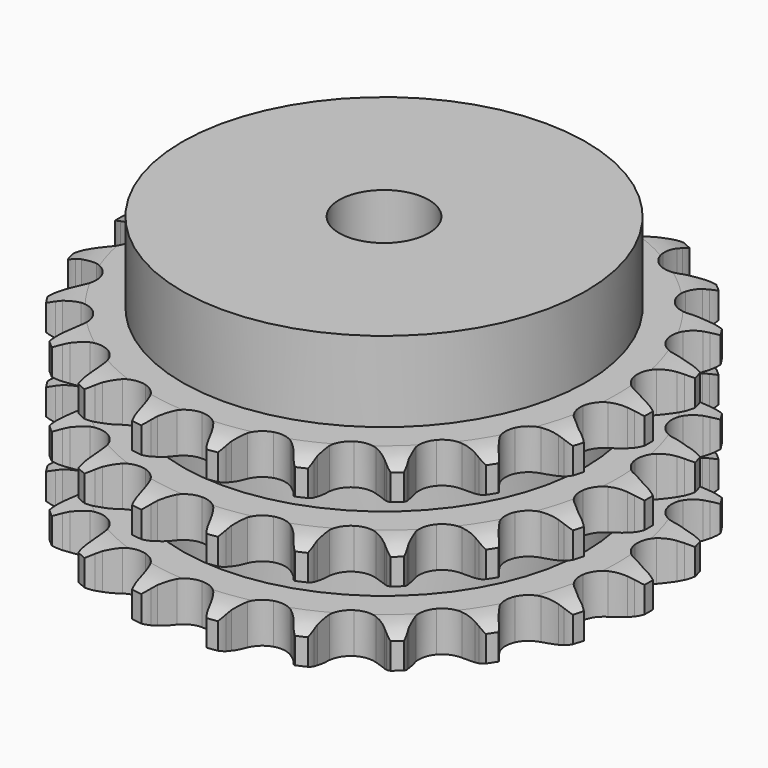
from build123d import *

# Parameters (mm, degrees)
PAD_DEPTH         = 42.1
SKETCH001_R       = 45
PAD001_DEPTH      = 60
SKETCH002_R       = 10
POCKET_DEPTH      = 0.001
POCKET_DEPTH_BACK = 60.001


with BuildPart() as part:
    # Sprocket → Pad (new body)
    with BuildSketch(Plane.XY):
        with BuildLine():
            ThreePointArc((-8.640686, 60.097289), (-7.303352, 58.644234), (-6.344236, 56.917988))
            Line((-6.344236, 56.917988), (-5.852618, 55.717672))
            ThreePointArc((-5.852618, 55.717672), (-5.064758, 54.112029), (-4.068161, 52.6269))
            ThreePointArc((-4.068161, 52.6269), (-2.265758, 51.156659), (0, 50.630726))
            ThreePointArc((0, 50.630726), (2.265758, 51.156659), (4.068161, 52.6269))
            ThreePointArc((4.068161, 52.6269), (5.064758, 54.112029), (5.852618, 55.717672))
            Line((5.852618, 55.717672), (6.344236, 56.917988))
            ThreePointArc((6.344236, 56.917988), (7.303352, 58.644234), (8.640686, 60.097289))
            ThreePointArc((8.640686, 60.097289), (9.514475, 58.326323), (9.9484, 56.399787))
            Line((9.9484, 56.399787), (10.081936, 55.109588))
            ThreePointArc((10.081936, 55.109588), (10.385521, 53.347019), (10.92334, 51.641274))
            ThreePointArc((10.92334, 51.641274), (12.238517, 49.722792), (14.264324, 48.579826))
            ThreePointArc((14.264324, 48.579826), (16.586475, 48.446117), (18.730083, 49.349008))
            Line((18.730083, 49.349008), (21.313028, 51.811841))
            ThreePointArc((21.313028, 51.811841), (21.705579, 52.328336), (22.122901, 52.825031))
            ThreePointArc((22.122901, 52.825031), (23.529505, 54.211138), (25.22204, 55.228564))
            ThreePointArc((25.22204, 55.228564), (25.561496, 53.28316), (25.435076, 51.312411))
            Line((25.435076, 51.312411), (25.199712, 50.036852))
            ThreePointArc((25.199712, 50.036852), (24.994426, 48.26015), (25.029896, 46.471979))
            ThreePointArc((25.029896, 46.471979), (25.751301, 44.260681), (27.373037, 42.593277))
            ThreePointArc((27.373037, 42.593277), (29.563455, 41.810758), (31.874605, 42.073152))
            Line((31.874605, 42.073152), (35.046783, 43.708524))
            ThreePointArc((35.046783, 43.708524), (35.568947, 44.093503), (36.109299, 44.452505))
            ThreePointArc((36.109299, 44.452505), (37.849438, 45.386179), (39.760055, 45.88555))
            ThreePointArc((39.760055, 45.88555), (39.537676, 43.923312), (38.861154, 42.068009))
            Line((38.861154, 42.068009), (38.275957, 40.910429))
            ThreePointArc((38.275957, 40.910429), (37.578432, 39.263532), (37.108679, 37.537801))
            ThreePointArc((37.108679, 37.537801), (37.177867, 35.212833), (38.26415, 33.156075))
            ThreePointArc((38.26415, 33.156075), (40.145379, 31.788141), (42.436836, 31.38878))
            Line((42.436836, 31.38878), (45.941257, 32.064202))
            ThreePointArc((45.941257, 32.064202), (46.55073, 32.286476), (47.170336, 32.478701))
            ThreePointArc((47.170336, 32.478701), (49.103034, 32.884301), (51.076947, 32.82516))
            ThreePointArc((51.076947, 32.82516), (50.310749, 31.005058), (49.138932, 29.415507))
            Line((49.138932, 29.415507), (48.251311, 28.469686))
            ThreePointArc((48.251311, 28.469686), (47.118056, 27.086015), (46.181137, 25.562533))
            ThreePointArc((46.181137, 25.562533), (45.592503, 23.31225), (46.055329, 21.032764))
            ThreePointArc((46.055329, 21.032764), (47.474963, 19.190238), (49.561087, 18.161475))
            Line((49.561087, 18.161475), (53.113842, 17.822228))
            ThreePointArc((53.113842, 17.822228), (53.761249, 17.863791), (54.409914, 17.873666))
            ThreePointArc((54.409914, 17.873666), (56.378594, 17.718332), (58.255888, 17.105472))
            ThreePointArc((58.255888, 17.105472), (57.007945, 15.574959), (55.435766, 14.379936))
            Line((55.435766, 14.379936), (54.317632, 13.722499))
            ThreePointArc((54.317632, 13.722499), (52.840456, 12.714151), (51.512275, 11.516341))
            ThreePointArc((51.512275, 11.516341), (50.313507, 9.523048), (50.115379, 7.205504))
            ThreePointArc((50.115379, 7.205504), (50.958409, 5.037656), (52.670194, 3.462836))
            Line((52.670194, 3.462836), (55.98346, 2.136404))
            ThreePointArc((55.98346, 2.136404), (56.616352, 1.993887), (57.241524, 1.820613))
            ThreePointArc((57.241524, 1.820613), (59.086696, 1.11693), (60.715283, 0))
            ThreePointArc((60.715283, 0), (59.086696, -1.11693), (57.241524, -1.820613))
            Line((57.241524, -1.820613), (55.98346, -2.136404))
            ThreePointArc((55.98346, -2.136404), (54.282037, -2.687739), (52.670194, -3.462836))
            ThreePointArc((52.670194, -3.462836), (50.958409, -5.037656), (50.115379, -7.205504))
            ThreePointArc((50.115379, -7.205504), (50.313507, -9.523048), (51.512275, -11.516341))
            Line((51.512275, -11.516341), (54.317632, -13.722499))
            ThreePointArc((54.317632, -13.722499), (54.884735, -14.037549), (55.435766, -14.379936))
            ThreePointArc((55.435766, -14.379936), (57.007945, -15.574959), (58.255888, -17.105472))
            ThreePointArc((58.255888, -17.105472), (56.378594, -17.718332), (54.409914, -17.873666))
            Line((54.409914, -17.873666), (53.113842, -17.822228))
            ThreePointArc((53.113842, -17.822228), (51.326009, -17.871883), (49.561087, -18.161475))
            ThreePointArc((49.561087, -18.161475), (47.474963, -19.190238), (46.055329, -21.032764))
            ThreePointArc((46.055329, -21.032764), (45.592503, -23.31225), (46.181137, -25.562533))
            Line((46.181137, -25.562533), (48.251311, -28.469686))
            ThreePointArc((48.251311, -28.469686), (48.706683, -28.931746), (49.138932, -29.415507))
            ThreePointArc((49.138932, -29.415507), (50.310749, -31.005058), (51.076947, -32.82516))
            ThreePointArc((51.076947, -32.82516), (49.103034, -32.884301), (47.170336, -32.478701))
            Line((47.170336, -32.478701), (45.941257, -32.064202))
            ThreePointArc((45.941257, -32.064202), (44.211854, -31.608154), (42.436836, -31.38878))
            ThreePointArc((42.436836, -31.38878), (40.145379, -31.788141), (38.26415, -33.156075))
            ThreePointArc((38.26415, -33.156075), (37.177867, -35.212833), (37.108679, -37.537801))
            Line((37.108679, -37.537801), (38.275957, -40.910429))
            ThreePointArc((38.275957, -40.910429), (38.582706, -41.482066), (38.861154, -42.068009))
            ThreePointArc((38.861154, -42.068009), (39.537676, -43.923312), (39.760055, -45.88555))
            ThreePointArc((39.760055, -45.88555), (37.849438, -45.386179), (36.109299, -44.452505))
            Line((36.109299, -44.452505), (35.046783, -43.708524))
            ThreePointArc((35.046783, -43.708524), (33.515917, -42.78372), (31.874605, -42.073152))
            ThreePointArc((31.874605, -42.073152), (29.563455, -41.810758), (27.373037, -42.593277))
            ThreePointArc((27.373037, -42.593277), (25.751301, -44.260681), (25.029896, -46.471979))
            Line((25.029896, -46.471979), (25.199712, -50.036852))
            ThreePointArc((25.199712, -50.036852), (25.332987, -50.671755), (25.435076, -51.312411))
            ThreePointArc((25.435076, -51.312411), (25.561496, -53.28316), (25.22204, -55.228564))
            ThreePointArc((25.22204, -55.228564), (23.529505, -54.211138), (22.122901, -52.825031))
            Line((22.122901, -52.825031), (21.313028, -51.811841))
            ThreePointArc((21.313028, -51.811841), (20.10472, -50.493204), (18.730083, -49.349008))
            ThreePointArc((18.730083, -49.349008), (16.586475, -48.446117), (14.264324, -48.579826))
            ThreePointArc((14.264324, -48.579826), (12.238517, -49.722792), (10.92334, -51.641274))
            Line((10.92334, -51.641274), (10.081936, -55.109588))
            ThreePointArc((10.081936, -55.109588), (10.03094, -55.75632), (9.9484, -56.399787))
            ThreePointArc((9.9484, -56.399787), (9.514475, -58.326323), (8.640686, -60.097289))
            ThreePointArc((8.640686, -60.097289), (7.303352, -58.644234), (6.344236, -56.917988))
            Line((6.344236, -56.917988), (5.852618, -55.717672))
            ThreePointArc((5.852618, -55.717672), (5.064758, -54.112029), (4.068161, -52.6269))
            ThreePointArc((4.068161, -52.6269), (2.265758, -51.156659), (0, -50.630726))
            ThreePointArc((0, -50.630726), (-2.265758, -51.156659), (-4.068161, -52.6269))
            Line((-4.068161, -52.6269), (-5.852618, -55.717672))
            ThreePointArc((-5.852618, -55.717672), (-6.083754, -56.323839), (-6.344236, -56.917988))
            ThreePointArc((-6.344236, -56.917988), (-7.303352, -58.644234), (-8.640686, -60.097289))
            ThreePointArc((-8.640686, -60.097289), (-9.514475, -58.326323), (-9.9484, -56.399787))
            Line((-9.9484, -56.399787), (-10.081936, -55.109588))
            ThreePointArc((-10.081936, -55.109588), (-10.385521, -53.347019), (-10.92334, -51.641274))
            ThreePointArc((-10.92334, -51.641274), (-12.238517, -49.722792), (-14.264324, -48.579826))
            ThreePointArc((-14.264324, -48.579826), (-16.586475, -48.446117), (-18.730083, -49.349008))
            Line((-18.730083, -49.349008), (-21.313028, -51.811841))
            ThreePointArc((-21.313028, -51.811841), (-21.705579, -52.328336), (-22.122901, -52.825031))
            ThreePointArc((-22.122901, -52.825031), (-23.529505, -54.211138), (-25.22204, -55.228564))
            ThreePointArc((-25.22204, -55.228564), (-25.561496, -53.28316), (-25.435076, -51.312411))
            Line((-25.435076, -51.312411), (-25.199712, -50.036852))
            ThreePointArc((-25.199712, -50.036852), (-24.994426, -48.26015), (-25.029896, -46.471979))
            ThreePointArc((-25.029896, -46.471979), (-25.751301, -44.260681), (-27.373037, -42.593277))
            ThreePointArc((-27.373037, -42.593277), (-29.563455, -41.810758), (-31.874605, -42.073152))
            Line((-31.874605, -42.073152), (-35.046783, -43.708524))
            ThreePointArc((-35.046783, -43.708524), (-35.568947, -44.093503), (-36.109299, -44.452505))
            ThreePointArc((-36.109299, -44.452505), (-37.849438, -45.386179), (-39.760055, -45.88555))
            ThreePointArc((-39.760055, -45.88555), (-39.537676, -43.923312), (-38.861154, -42.068009))
            Line((-38.861154, -42.068009), (-38.275957, -40.910429))
            ThreePointArc((-38.275957, -40.910429), (-37.578432, -39.263532), (-37.108679, -37.537801))
            ThreePointArc((-37.108679, -37.537801), (-37.177867, -35.212833), (-38.26415, -33.156075))
            ThreePointArc((-38.26415, -33.156075), (-40.145379, -31.788141), (-42.436836, -31.38878))
            Line((-42.436836, -31.38878), (-45.941257, -32.064202))
            ThreePointArc((-45.941257, -32.064202), (-46.55073, -32.286476), (-47.170336, -32.478701))
            ThreePointArc((-47.170336, -32.478701), (-49.103034, -32.884301), (-51.076947, -32.82516))
            ThreePointArc((-51.076947, -32.82516), (-50.310749, -31.005058), (-49.138932, -29.415507))
            Line((-49.138932, -29.415507), (-48.251311, -28.469686))
            ThreePointArc((-48.251311, -28.469686), (-47.118056, -27.086015), (-46.181137, -25.562533))
            ThreePointArc((-46.181137, -25.562533), (-45.592503, -23.31225), (-46.055329, -21.032764))
            ThreePointArc((-46.055329, -21.032764), (-47.474963, -19.190238), (-49.561087, -18.161475))
            Line((-49.561087, -18.161475), (-53.113842, -17.822228))
            ThreePointArc((-53.113842, -17.822228), (-53.761249, -17.863791), (-54.409914, -17.873666))
            ThreePointArc((-54.409914, -17.873666), (-56.378594, -17.718332), (-58.255888, -17.105472))
            ThreePointArc((-58.255888, -17.105472), (-57.007945, -15.574959), (-55.435766, -14.379936))
            Line((-55.435766, -14.379936), (-54.317632, -13.722499))
            ThreePointArc((-54.317632, -13.722499), (-52.840456, -12.714151), (-51.512275, -11.516341))
            ThreePointArc((-51.512275, -11.516341), (-50.313507, -9.523048), (-50.115379, -7.205504))
            ThreePointArc((-50.115379, -7.205504), (-50.958409, -5.037656), (-52.670194, -3.462836))
            Line((-52.670194, -3.462836), (-55.98346, -2.136404))
            ThreePointArc((-55.98346, -2.136404), (-56.616352, -1.993887), (-57.241524, -1.820613))
            ThreePointArc((-57.241524, -1.820613), (-59.086696, -1.11693), (-60.715283, 0))
            ThreePointArc((-60.715283, 0), (-59.086696, 1.11693), (-57.241524, 1.820613))
            Line((-57.241524, 1.820613), (-55.98346, 2.136404))
            ThreePointArc((-55.98346, 2.136404), (-54.282037, 2.687739), (-52.670194, 3.462836))
            ThreePointArc((-52.670194, 3.462836), (-50.958409, 5.037656), (-50.115379, 7.205504))
            ThreePointArc((-50.115379, 7.205504), (-50.313507, 9.523048), (-51.512275, 11.516341))
            Line((-51.512275, 11.516341), (-54.317632, 13.722499))
            ThreePointArc((-54.317632, 13.722499), (-54.884735, 14.037549), (-55.435766, 14.379936))
            ThreePointArc((-55.435766, 14.379936), (-57.007945, 15.574959), (-58.255888, 17.105472))
            ThreePointArc((-58.255888, 17.105472), (-56.378594, 17.718332), (-54.409914, 17.873666))
            Line((-54.409914, 17.873666), (-53.113842, 17.822228))
            ThreePointArc((-53.113842, 17.822228), (-51.326009, 17.871883), (-49.561087, 18.161475))
            ThreePointArc((-49.561087, 18.161475), (-47.474963, 19.190238), (-46.055329, 21.032764))
            ThreePointArc((-46.055329, 21.032764), (-45.592503, 23.31225), (-46.181137, 25.562533))
            Line((-46.181137, 25.562533), (-48.251311, 28.469686))
            ThreePointArc((-48.251311, 28.469686), (-48.706683, 28.931746), (-49.138932, 29.415507))
            ThreePointArc((-49.138932, 29.415507), (-50.310749, 31.005058), (-51.076947, 32.82516))
            ThreePointArc((-51.076947, 32.82516), (-49.103034, 32.884301), (-47.170336, 32.478701))
            Line((-47.170336, 32.478701), (-45.941257, 32.064202))
            ThreePointArc((-45.941257, 32.064202), (-44.211854, 31.608154), (-42.436836, 31.38878))
            ThreePointArc((-42.436836, 31.38878), (-40.145379, 31.788141), (-38.26415, 33.156075))
            ThreePointArc((-38.26415, 33.156075), (-37.177867, 35.212833), (-37.108679, 37.537801))
            Line((-37.108679, 37.537801), (-38.275957, 40.910429))
            ThreePointArc((-38.275957, 40.910429), (-38.582706, 41.482066), (-38.861154, 42.068009))
            ThreePointArc((-38.861154, 42.068009), (-39.537676, 43.923312), (-39.760055, 45.88555))
            ThreePointArc((-39.760055, 45.88555), (-37.849438, 45.386179), (-36.109299, 44.452505))
            Line((-36.109299, 44.452505), (-35.046783, 43.708524))
            ThreePointArc((-35.046783, 43.708524), (-33.515917, 42.78372), (-31.874605, 42.073152))
            ThreePointArc((-31.874605, 42.073152), (-29.563455, 41.810758), (-27.373037, 42.593277))
            ThreePointArc((-27.373037, 42.593277), (-25.751301, 44.260681), (-25.029896, 46.471979))
            Line((-25.029896, 46.471979), (-25.199712, 50.036852))
            ThreePointArc((-25.199712, 50.036852), (-25.332987, 50.671755), (-25.435076, 51.312411))
            ThreePointArc((-25.435076, 51.312411), (-25.561496, 53.28316), (-25.22204, 55.228564))
            ThreePointArc((-25.22204, 55.228564), (-23.529505, 54.211138), (-22.122901, 52.825031))
            Line((-22.122901, 52.825031), (-21.313028, 51.811841))
            ThreePointArc((-21.313028, 51.811841), (-20.10472, 50.493204), (-18.730083, 49.349008))
            ThreePointArc((-18.730083, 49.349008), (-16.586475, 48.446117), (-14.264324, 48.579826))
            ThreePointArc((-14.264324, 48.579826), (-12.238517, 49.722792), (-10.92334, 51.641274))
            Line((-10.92334, 51.641274), (-10.081936, 55.109588))
            ThreePointArc((-10.081936, 55.109588), (-10.03094, 55.75632), (-9.9484, 56.399787))
            ThreePointArc((-9.9484, 56.399787), (-9.514475, 58.326323), (-8.640686, 60.097289))
        make_face()
    extrude(amount=PAD_DEPTH)

    # Sketch → Groove (revolve, cut)
    with BuildSketch(Plane.XZ):
        with BuildLine():
            ThreePointArc((52.025762, 0), (55.60347, 0.405129), (59, 1.6))
            Line((59, 1.6), (59, 7.4))
            ThreePointArc((59, 7.4), (55.60347, 8.594871), (52.025762, 9))
            Line((45, 9), (52.025762, 9))
            Line((45, 9), (45, 16.55))
            Line((45, 16.55), (52.025762, 16.55))
            ThreePointArc((52.025762, 16.55), (55.60347, 16.955129), (59, 18.15))
            Line((59, 23.95), (59, 18.15))
            ThreePointArc((59, 23.95), (55.60347, 25.144871), (52.025762, 25.55))
            Line((45, 25.55), (52.025762, 25.55))
            Line((45, 33.1), (45, 25.55))
            Line((52.025762, 33.1), (45, 33.1))
            ThreePointArc((52.025762, 33.1), (55.60347, 33.505129), (59, 34.7))
            Line((59, 34.7), (59, 40.5))
            ThreePointArc((59, 40.5), (55.60347, 41.694871), (52.025762, 42.1))
            Line((52.025762, 42.1), (69, 42.1))
            Line((69, 42.1), (69, 0))
            Line((52.025762, 0), (69, 0))
        make_face()
    revolve(axis=Axis((0, 0, 0), (0, 0, 1)), mode=Mode.SUBTRACT)

    # Sketch001 → Pad001 (join)
    with BuildSketch(Plane.XY):
        Circle(SKETCH001_R)
    extrude(amount=PAD001_DEPTH)

    # Sketch002 → Pocket (cut, two sides)
    with BuildSketch(Plane.XY) as pocket_sk:
        Circle(SKETCH002_R)
    extrude(amount=-POCKET_DEPTH, mode=Mode.SUBTRACT)
    extrude(pocket_sk.sketch, amount=POCKET_DEPTH_BACK, mode=Mode.SUBTRACT)


solid = part.part
